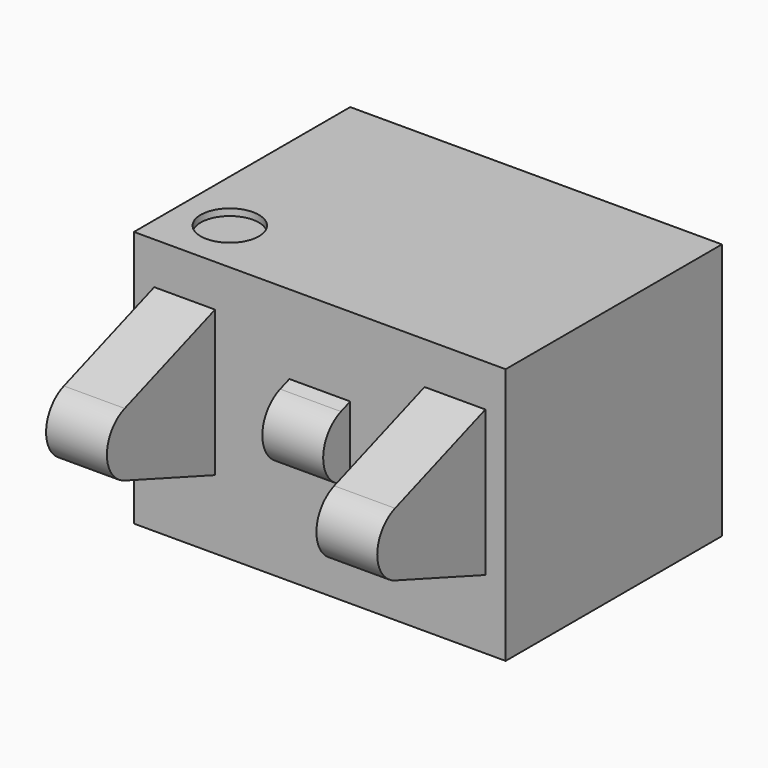
from build123d import *

# Parameters (mm, degrees)
PAD_DEPTH       = 2.75
SKETCH001_W     = 1.1
SKETCH001_H     = 5
POCKET_DEPTH    = 5
POCKET001_DEPTH = 1
SKETCH003_R     = 0.430574
POCKET002_DEPTH = 0.1


with BuildPart() as part:
    # Sketch → Pad (new body, symmetric)
    with BuildSketch(Plane.YZ):
        with BuildLine():
            Line((-2, 3.8), (2, 3.8))
            Line((2, 3.8), (2, 0))
            Line((2, 0), (-2, 0))
            Line((-2, 1.021956), (-2, 0))
            Line((-3.67101, 1.630154), (-2, 1.021956))
            ThreePointArc((-3.67101, 2.569846), (-4, 2.1), (-3.67101, 1.630154))
            Line((-3.67101, 2.569846), (-2, 3.178044))
            Line((-2, 3.8), (-2, 3.178044))
        make_face()
    extrude(amount=PAD_DEPTH, both=True)

    # Sketch001 → Pocket (cut)
    with BuildSketch(Plane.XY):
        with Locations((-3, -4.5)):
            Rectangle(SKETCH001_W, SKETCH001_H)
        with Locations((3, -4.5)):
            Rectangle(SKETCH001_W, SKETCH001_H)
        with Locations((-1, -4.5)):
            Rectangle(SKETCH001_W, SKETCH001_H)
        with Locations((1, -4.5)):
            Rectangle(SKETCH001_W, SKETCH001_H)
    extrude(amount=POCKET_DEPTH, mode=Mode.SUBTRACT)

    # Sketch002 → Pocket001 (cut, symmetric)
    with BuildSketch(Plane.YZ):
        with BuildLine():
            Line((-2, 3.803843), (-2, 2.632089))
            Line((-2.17101, 2.569846), (-2, 2.632089))
            ThreePointArc((-2.17101, 2.569846), (-2.5, 2.1), (-2.17101, 1.630154))
            Line((-2.17101, 1.630154), (-2, 1.567911))
            Line((-2, 1.567911), (-2, 0))
            Line((-2, 0), (-4.600504, 0))
            Line((-4.600504, 0), (-4.600504, 3.803843))
            Line((-4.600504, 3.803843), (-2, 3.803843))
        make_face()
    extrude(amount=POCKET001_DEPTH, both=True, mode=Mode.SUBTRACT)

    # Sketch003 (on Face5 of Pocket001) → Pocket002 (cut)
    with BuildSketch(Plane(origin=(0, 0, 3.8), x_dir=(0, -1, 0), z_dir=(0, 0, 1))):
        with Locations((1.184462, -1.98417)):
            Circle(SKETCH003_R)
    extrude(amount=-POCKET002_DEPTH, mode=Mode.SUBTRACT)


solid = part.part
